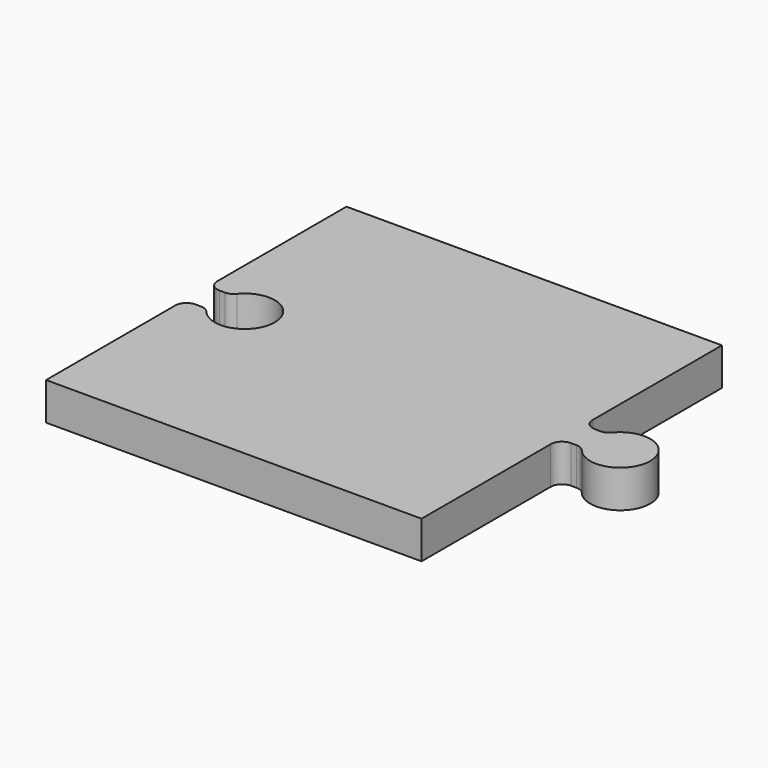
from build123d import *

# Parameters (mm, degrees)
F1_DEPTH = 5


with BuildPart() as f1:
    # F0 (on Top) → F1 (new body)
    with BuildSketch(Plane.XY):
        with BuildLine():
            Line((34.810006, 21.72002), (-15.189994, 21.72002))
            Line((-15.189994, 21.72002), (-15.189994, 0.22002))
            ThreePointArc((-15.189994, 0.22002), (-14.750654, -0.84064), (-13.689994, -1.27998))
            Line((-13.689994, -1.27998), (-12.972634, -1.27998))
            ThreePointArc((-12.972634, -1.27998), (-12.333032, -1.136781), (-11.81555, -0.734526))
            ThreePointArc((-11.81555, -0.734526), (-4.729994, -3.27998), (-11.81555, -5.825435))
            ThreePointArc((-11.81555, -5.825435), (-12.333032, -5.423179), (-12.972634, -5.27998))
            Line((-12.972634, -5.27998), (-13.689994, -5.27998))
            ThreePointArc((-13.689994, -5.27998), (-14.750654, -5.71932), (-15.189994, -6.77998))
            Line((-15.189994, -6.77998), (-15.189994, -28.27998))
            Line((-15.189994, -28.27998), (34.810006, -28.27998))
            Line((34.810006, -28.27998), (34.810006, -6.77998))
            ThreePointArc((34.810006, -6.77998), (35.249346, -5.71932), (36.310006, -5.27998))
            Line((36.310006, -5.27998), (37.027366, -5.27998))
            ThreePointArc((37.027366, -5.27998), (37.666968, -5.423179), (38.18445, -5.825435))
            ThreePointArc((38.18445, -5.825435), (45.270006, -3.27998), (38.18445, -0.734526))
            ThreePointArc((38.18445, -0.734526), (37.666968, -1.136781), (37.027366, -1.27998))
            Line((37.027366, -1.27998), (36.310006, -1.27998))
            ThreePointArc((36.310006, -1.27998), (35.249346, -0.84064), (34.810006, 0.22002))
            Line((34.810006, 0.22002), (34.810006, 21.72002))
        make_face()
    extrude(amount=F1_DEPTH)


solid = f1.part
